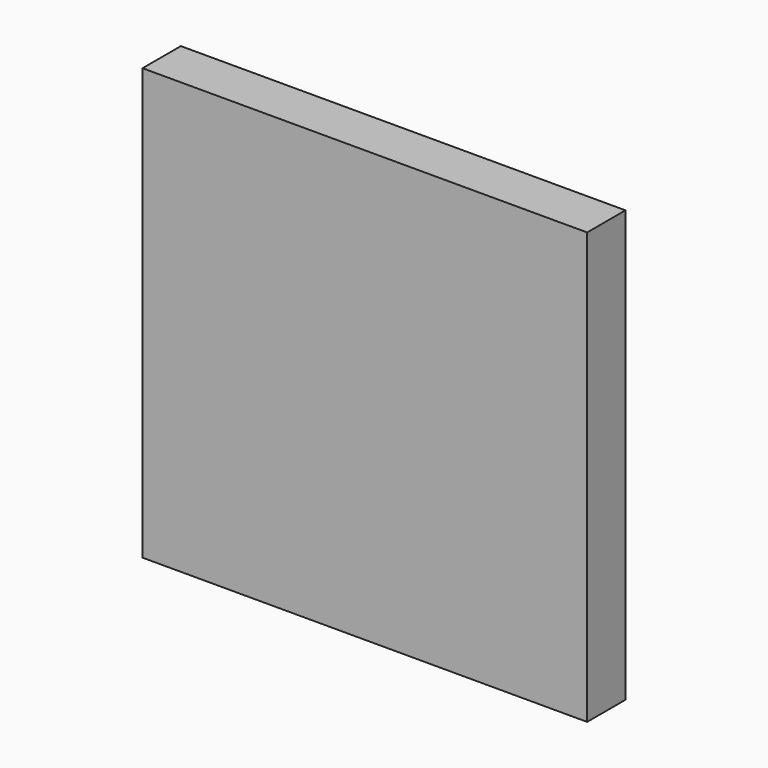
from build123d import *

# Parameters (mm, degrees)
BOX_W     = 130
BOX_H     = 14
BOX_DEPTH = 126


with BuildPart() as part:
    # Box → Box (new body)
    with BuildSketch(Plane.XY):
        with Locations((65, 7)):
            Rectangle(BOX_W, BOX_H)
    extrude(amount=BOX_DEPTH)


solid = part.part
